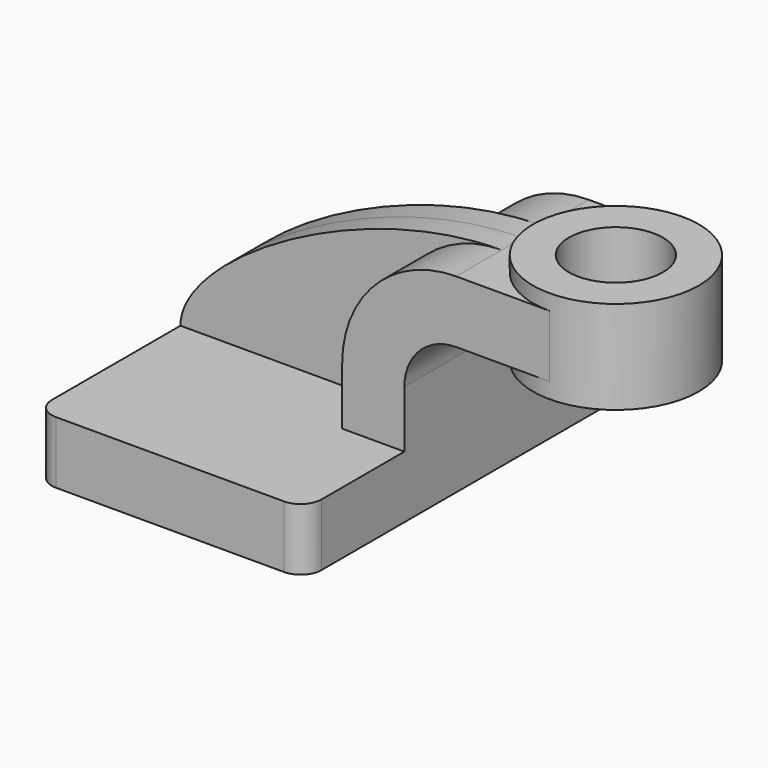
from build123d import *

# Parameters (mm, degrees)
F1_DEPTH = 63.5
F0_W     = 25.4
F0_H     = 19.05
F2_DEPTH = 25.4
F3_DEPTH = 7.9375
F0_W_2   = 11.0026748776
F0_H_2   = 28.575
F5_R     = 6.35


with BuildPart() as f1:
    # F0 (on Front) → F1 (new body, symmetric)
    with BuildSketch(Plane.XZ):
        Polygon((22.225, 9.525), (-41.275, 9.525), (-41.275, -9.525), (41.275, -9.525), (41.275, 9.525), align=None)
    extrude(amount=F1_DEPTH, both=True)

    # F0 (on Front) → F2 (join, symmetric)
    with BuildSketch(Plane.XZ):
        with BuildLine():
            Line((22.225, 27.0002), (22.225, 9.525))
            Line((22.225, 9.525), (41.275, 9.525))
            Line((41.275, 9.525), (41.275, 27.0002))
            ThreePointArc((41.275, 27.0002), (45.9246798487, 38.2255201513), (57.15, 42.8752))
            Line((57.15, 42.8752), (60.325, 42.8752))
            Line((60.325, 42.8752), (60.325, 61.9252))
            Line((60.325, 61.9252), (57.15, 61.9252))
            ThreePointArc((57.15, 61.9252), (32.4542956671, 51.6959043329), (22.225, 27.0002))
        make_face()
        with Locations((73.025, 52.4002)):
            Rectangle(F0_W, F0_H)
    extrude(amount=F2_DEPTH, both=True)

    # F0 (on Front) → F3 (join, symmetric)
    with BuildSketch(Plane.XZ):
        with BuildLine():
            add(Edge.make_bspline(
                [(-41.275, 9.525), (-41.275, 29.0701329026), (12.5299637369, 61.9252), (57.15, 61.9252)],
                knots=[0, 0, 0, 0, 111.5045361635, 111.5045361635, 111.5045361635, 111.5045361635], degree=3))
            Line((-41.275, 9.525), (22.225, 9.525))
            Line((22.225, 9.525), (22.225, 27.0002))
            ThreePointArc((22.225, 27.0002), (32.4542956671, 51.6959043329), (57.15, 61.9252))
        make_face()
    extrude(amount=F3_DEPTH, both=True)

    # F0 (on Front) → F4 (revolve)
    with BuildSketch(Plane.XZ):
        with Locations((105.6236625612, 52.3875)):
            Rectangle(F0_W_2, F0_H_2)
    revolve(axis=Axis((85.725, 0, 52.3875), (0, 0, 1)))

    # F5
    f5_edges = [f1.edges().sort_by_distance(p)[0] for p in [
        (-41.275, -63.5, 0),
        (41.275, -63.5, 0),
        (41.275, 63.5, 0),
        (-41.275, 63.5, 0),
    ]]
    fillet(f5_edges, radius=F5_R)

    # F0 (on Front) → F6 (revolve, cut)
    with BuildSketch(Plane.XZ):
        Polygon((85.725, 66.675), (85.725, 61.9252), (85.725, 42.8752), (85.725, 38.1), (100.1223251224, 38.1), (100.1223251224, 66.675), align=None)
    revolve(axis=Axis((85.725, 0, 52.3875), (0, 0, 1)), mode=Mode.SUBTRACT)


solid = f1.part
